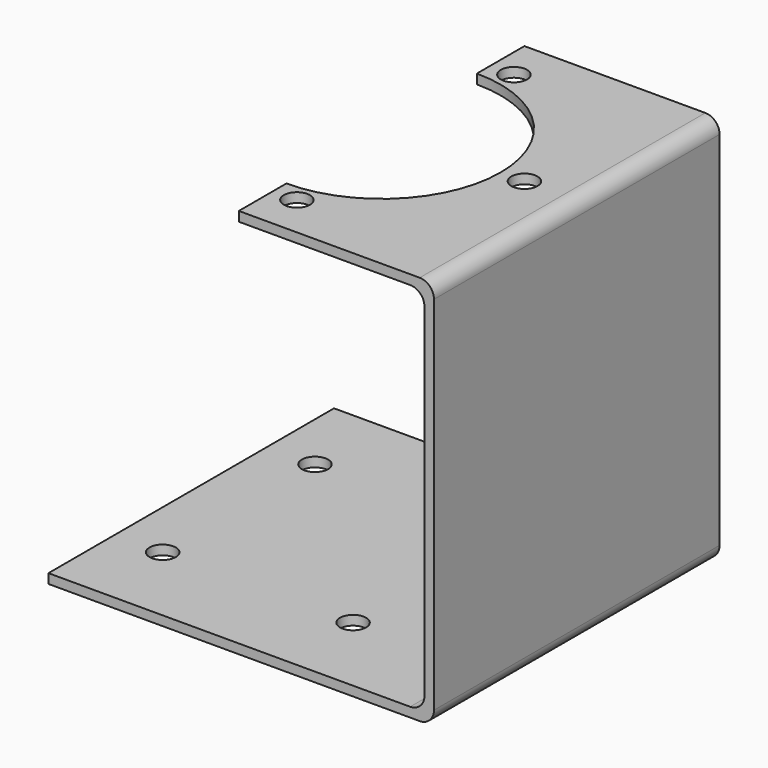
from build123d import *

# Parameters (mm, degrees)
F2_W           = 75
F2_H           = 2
F4_R           = 3
F6_DEPTH       = 2
F9_D           = 5.5
F9_DEPTH       = 18
F9_TIP         = 1.6523667023
F9_ON_F7_D     = 5.5
F9_ON_F7_DEPTH = 18
F9_ON_F7_TIP   = 1.6523667023


with BuildPart() as f3:
    # F3: sweep along a path in F0
    with BuildLine(Plane.XZ) as f3_path:
        Line((-80, 0), (0, 0))
        Line((0, 0), (0, 80))
        Line((0, 80), (-40, 80))
    # F2 (on line) → F3 (sweep)
    with BuildSketch(Plane.YZ.offset(-80)):
        Rectangle(F2_W, F2_H)
    sweep(path=f3_path.line, transition=Transition.RIGHT)

    # F4
    f4_edges = [f3.edges().sort_by_distance(p)[0] for p in [
        (-1, 0, 1),
        (-1, 0, 79),
        (1, 0, -1),
        (1, 0, 81),
    ]]
    fillet(f4_edges, radius=F4_R)

    # F5 (on face) → F6 (cut, through all)
    with BuildSketch(Plane.XY.offset(81)):
        with BuildLine():
            ThreePointArc((-40, -25), (-22.3223304703, -17.6776695297), (-15, 0))
            ThreePointArc((-15, 0), (-22.3223304703, 17.6776695297), (-40, 25))
            Line((-40, 25), (-40, -25))
        make_face()
    extrude(amount=-F6_DEPTH, mode=Mode.SUBTRACT)

    # F9
    with Locations(Plane.XY.offset(81)):
        with Locations((-35, 28.5), (-10, 0), (-35, -28.5)):
            Hole(F9_D / 2, depth=F9_DEPTH)
            with Locations((0, 0, -(F9_DEPTH + F9_TIP / 2))):  # 118° drill point
                Cone(0, F9_D / 2, F9_TIP, mode=Mode.SUBTRACT)

    # F9 on F7
    with Locations(Plane(origin=(0, 0, -1), x_dir=(1, 0, 0), z_dir=(0, 0, -1))):
        with Locations((-30, 20), (-30, -20), (-70, -20), (-70, 20)):
            Hole(F9_ON_F7_D / 2, depth=F9_ON_F7_DEPTH)
            with Locations((0, 0, -(F9_ON_F7_DEPTH + F9_ON_F7_TIP / 2))):  # 118° drill point
                Cone(0, F9_ON_F7_D / 2, F9_ON_F7_TIP, mode=Mode.SUBTRACT)


solid = f3.part
